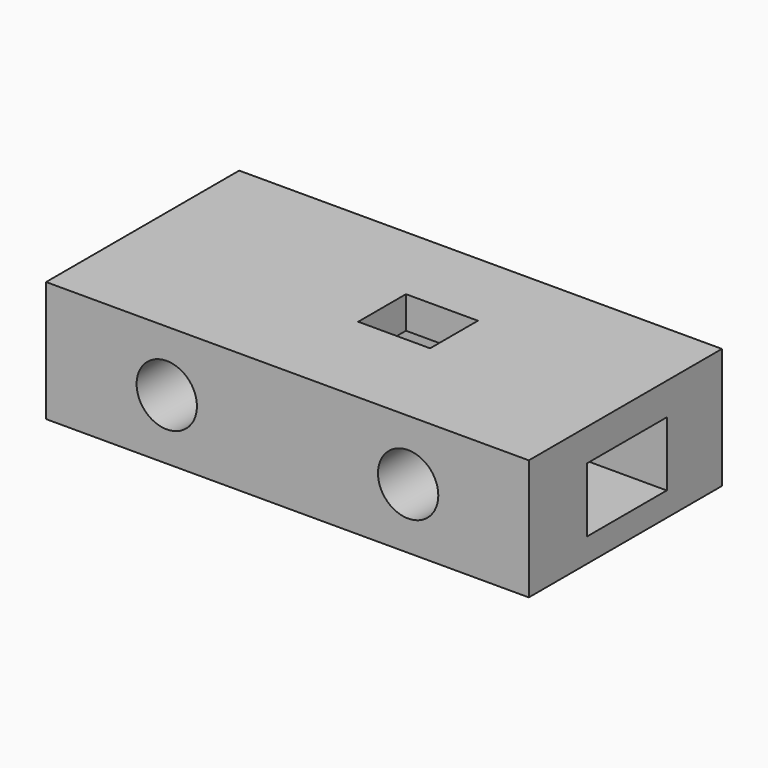
from build123d import *

# Parameters (mm, degrees)
F0_W     = 25.4
F0_H     = 6.35
F0_R     = 1.5875
F1_DEPTH = 12.7
F2_W     = 3.784558
F2_H     = 3.142819
F3_DEPTH = 25.4
F4_W     = 5.247167
F4_H     = 3.388975
F5_DEPTH = 25.4
F6_R     = 2.113267
F7_DEPTH = 25.4


with BuildPart() as f1:
    # F0 (on Front) → F1 (new body)
    with BuildSketch(Plane.XZ):
        with Locations((4.764033, 0)):
            Rectangle(F0_W, F0_H)
        with Locations((-1.585967, 0)):
            Circle(F0_R, mode=Mode.SUBTRACT)
        with Locations((11.114033, 0)):
            Circle(F0_R, mode=Mode.SUBTRACT)
    extrude(amount=F1_DEPTH)

    # F2 (on face) → F3 (cut)
    with BuildSketch(Plane(origin=(0, 0, -3.175), x_dir=(1, 0, 0), z_dir=(0, 0, -1))):
        with Locations((6.177249, 5.877707)):
            Rectangle(F2_W, F2_H)
    extrude(amount=-F3_DEPTH, mode=Mode.SUBTRACT)

    # F4 (on face) → F5 (cut)
    with BuildSketch(Plane(origin=(-7.935967, 0, 0), x_dir=(0, -1, 0), z_dir=(-1, 0, 0))):
        with Locations((6.250942, -0.213469)):
            Rectangle(F4_W, F4_H)
    extrude(amount=-F5_DEPTH, mode=Mode.SUBTRACT)

    # F6 (on face) → F7 (cut)
    with BuildSketch(Plane.XZ):
        with Locations((5.720744, 0)):
            Circle(F6_R)
    extrude(amount=-F7_DEPTH, mode=Mode.SUBTRACT)


solid = f1.part
